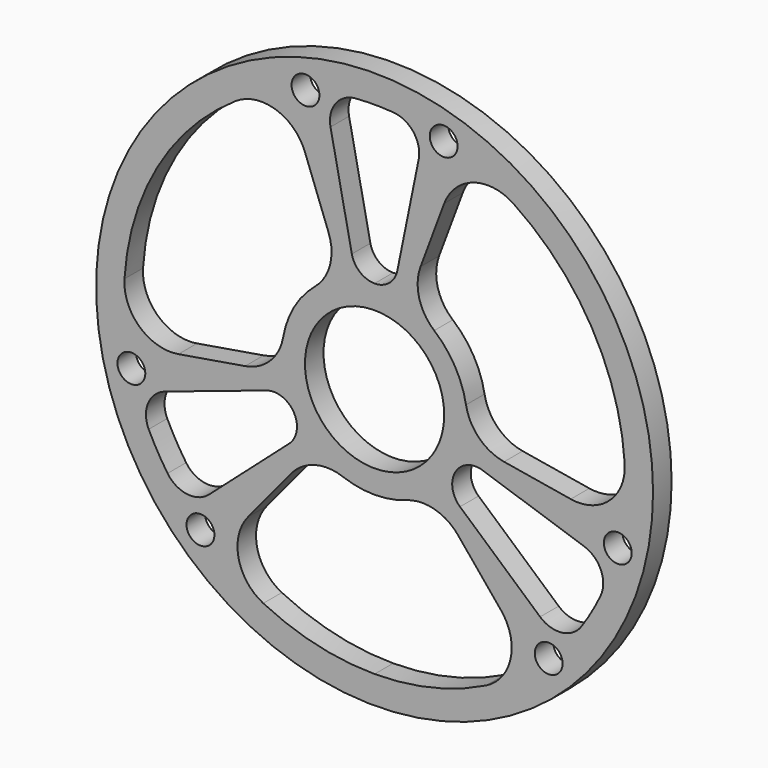
from build123d import *

# Parameters (mm, degrees)
F0_R     = 1524
F0_R_2   = 76.2
F0_R_3   = 381
F1_DEPTH = 127


with BuildPart() as f1:
    # F0 (on Front) → F1 (new body)
    with BuildSketch(Plane.XZ):
        Circle(F0_R)
        with Locations((-952.793421, -986.64647)):
            Circle(F0_R_2, mode=Mode.SUBTRACT)
        with BuildLine():
            Line((-1147.127855, -383.823611), (-591.96728, -198.069481))
            ThreePointArc((-591.96728, -198.069481), (-441.684362, -255.006585), (-467.516842, -413.623962))
            Line((-467.516842, -413.623962), (-905.964925, -801.530058))
            ThreePointArc((-905.964925, -801.530058), (-1025.759688, -838.623755), (-1132.816748, -773.312857))
            ThreePointArc((-1132.816748, -773.312857), (-1187.840444, -685.8), (-1236.116953, -594.391653))
            ThreePointArc((-1236.116953, -594.391653), (-1239.14932, -469.02207), (-1147.127855, -383.823611))
        make_face(mode=Mode.SUBTRACT)
        with Locations((-1330.857618, -331.820072)):
            Circle(F0_R_2, mode=Mode.SUBTRACT)
        with BuildLine():
            Line((-692.27808, -839.800465), (-456.971626, -554.350911))
            ThreePointArc((-456.971626, -554.350911), (-327.727364, -470.842027), (-173.985988, -477.276519))
            ThreePointArc((-173.985988, -477.276519), (0, -508), (173.985988, -477.276519))
            ThreePointArc((173.985988, -477.276519), (327.727364, -470.842027), (456.971626, -554.350911))
            Line((456.971626, -554.350911), (692.27808, -839.800465))
            ThreePointArc((692.27808, -839.800465), (744.671817, -1054.469942), (609.07758, -1228.947135))
            ThreePointArc((609.07758, -1228.947135), (312.78001, -1335.460679), (0, -1371.6))
            ThreePointArc((0, -1371.6), (-312.78001, -1335.460679), (-609.07758, -1228.947135))
            ThreePointArc((-609.07758, -1228.947135), (-744.671817, -1054.469942), (-692.27808, -839.800465))
        make_face(mode=Mode.SUBTRACT)
        with Locations((952.793421, -986.64647)):
            Circle(F0_R_2, mode=Mode.SUBTRACT)
        with BuildLine():
            Line((905.964925, -801.530058), (467.516842, -413.623962))
            ThreePointArc((467.516842, -413.623962), (441.684362, -255.006585), (591.96728, -198.069481))
            Line((591.96728, -198.069481), (1147.127855, -383.823611))
            ThreePointArc((1147.127855, -383.823611), (1239.14932, -469.02207), (1236.116953, -594.391653))
            ThreePointArc((1236.116953, -594.391653), (1187.840444, -685.8), (1132.816748, -773.312857))
            ThreePointArc((1132.816748, -773.312857), (1025.759688, -838.623755), (905.964925, -801.530058))
        make_face(mode=Mode.SUBTRACT)
        with Locations((1330.857618, -331.820072)):
            Circle(F0_R_2, mode=Mode.SUBTRACT)
        with BuildLine():
            ThreePointArc((-251.596158, 672.924493), (-243.897475, 519.241236), (-326.340596, 389.314545))
            ThreePointArc((-326.340596, 389.314545), (-439.940905, 254), (-500.326584, 87.961974))
            ThreePointArc((-500.326584, 87.961974), (-571.624839, -48.399209), (-708.567785, -118.573582))
            Line((-708.567785, -118.573582), (-1073.427576, -179.630171))
            ThreePointArc((-1073.427576, -179.630171), (-1285.533665, -117.66974), (-1368.838229, 86.99691))
            ThreePointArc((-1368.838229, 86.99691), (-1187.840444, 685.8), (-759.760649, 1141.950225))
            ThreePointArc((-759.760649, 1141.950225), (-540.861849, 1172.139682), (-381.149497, 1019.430636))
            Line((-381.149497, 1019.430636), (-251.596158, 672.924493))
        make_face(mode=Mode.SUBTRACT)
        with Locations((-378.064197, 1318.466542)):
            Circle(F0_R_2, mode=Mode.SUBTRACT)
        Circle(F0_R_3, mode=Mode.SUBTRACT)
        with BuildLine():
            ThreePointArc((708.567785, -118.573582), (571.624839, -48.399209), (500.326584, 87.961974))
            ThreePointArc((500.326584, 87.961974), (439.940905, 254), (326.340596, 389.314545))
            ThreePointArc((326.340596, 389.314545), (243.897475, 519.241236), (251.596158, 672.924493))
            Line((251.596158, 672.924493), (381.149497, 1019.430636))
            ThreePointArc((381.149497, 1019.430636), (540.861849, 1172.139682), (759.760649, 1141.950225))
            ThreePointArc((759.760649, 1141.950225), (1187.840444, 685.8), (1368.838229, 86.99691))
            ThreePointArc((1368.838229, 86.99691), (1285.533665, -117.66974), (1073.427576, -179.630171))
            Line((1073.427576, -179.630171), (708.567785, -118.573582))
        make_face(mode=Mode.SUBTRACT)
        with BuildLine():
            ThreePointArc((0, 510.013171), (-80.353577, 538.665305), (-124.450437, 611.693443))
            Line((-124.450437, 611.693443), (-241.16293, 1185.353669))
            ThreePointArc((-241.16293, 1185.353669), (-213.389632, 1307.645825), (-103.300205, 1367.70451))
            ThreePointArc((-103.300205, 1367.70451), (0, 1371.6), (103.300205, 1367.70451))
            ThreePointArc((103.300205, 1367.70451), (213.389632, 1307.645825), (241.16293, 1185.353669))
            Line((241.16293, 1185.353669), (124.450437, 611.693443))
            ThreePointArc((124.450437, 611.693443), (80.353577, 538.665305), (0, 510.013171))
        make_face(mode=Mode.SUBTRACT)
        with Locations((378.064197, 1318.466542)):
            Circle(F0_R_2, mode=Mode.SUBTRACT)
    extrude(amount=F1_DEPTH)


solid = f1.part
